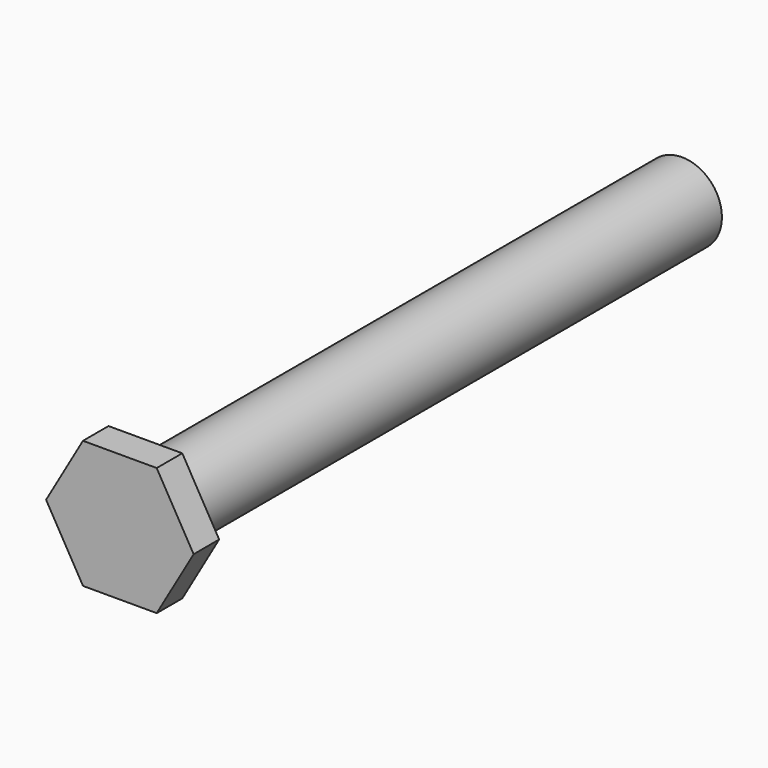
from build123d import *

# Parameters (mm, degrees)
F0_R     = 3.96875
F1_DEPTH = 66.675
F2_R     = 3.96875
F3_DEPTH = 3.175


with BuildPart() as f1:
    # F0 (on Front) → F1 (new body)
    with BuildSketch(Plane.XZ):
        Circle(F0_R)
    extrude(amount=F1_DEPTH)

    # F2 (on face) → F3 (join)
    with BuildSketch(Plane.XZ.offset(66.675)):
        Polygon((3.666174, 6.35), (-3.666174, 6.35), (-7.332348, 0), (-3.666174, -6.35), (3.666174, -6.35), (7.332348, 0), align=None)
        Circle(F2_R, mode=Mode.SUBTRACT)
        Circle(F2_R)
    extrude(amount=F3_DEPTH)


solid = f1.part
